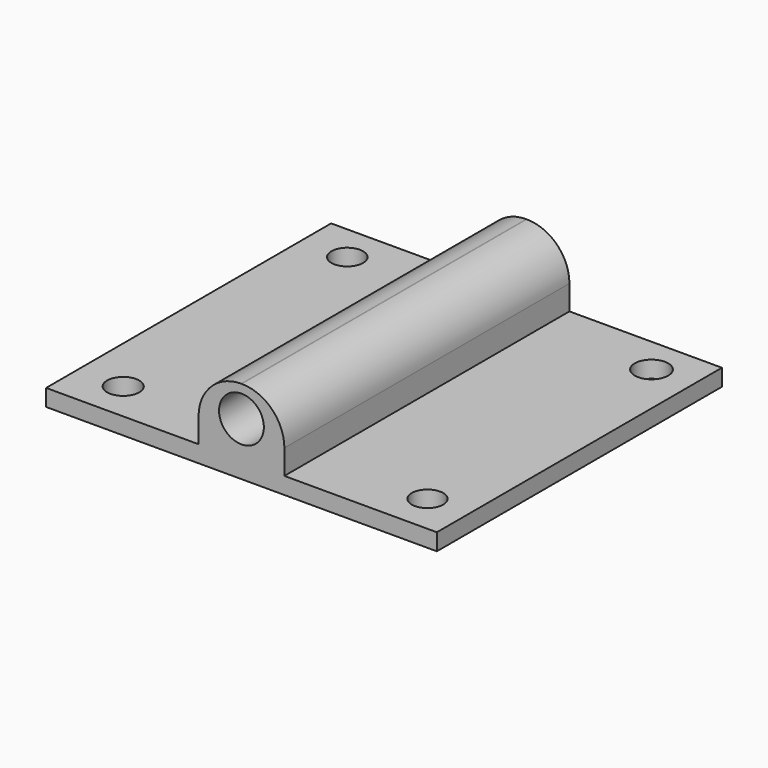
from build123d import *

# Parameters (mm, degrees)
F0_W     = 221.675306
F0_H     = 202.127948
F0_R     = 9.121421
F0_R_2   = 8.929781
F0_R_3   = 8.997318
F0_R_4   = 9.484007
F1_DEPTH = 9.525
F2_W     = 48.670978
F2_H     = 202.127948
F3_DEPTH = 38.1
F5_D     = 25.4
F6_R     = 24.13


with BuildPart() as f1:
    # F0 (on Top) → F1 (new body)
    with BuildSketch(Plane.XY):
        Rectangle(F0_W, F0_H)
        with Locations((-85.051782, -78.605309)):
            Circle(F0_R, mode=Mode.SUBTRACT)
        with Locations((87.547183, -78.605309)):
            Circle(F0_R_2, mode=Mode.SUBTRACT)
        with Locations((-85.051782, 80.268927)):
            Circle(F0_R_3, mode=Mode.SUBTRACT)
        with Locations((87.547183, 80.268927)):
            Circle(F0_R_4, mode=Mode.SUBTRACT)
    extrude(amount=F1_DEPTH)

    # F2 (on face) → F3 (join)
    with BuildSketch(Plane.XY.offset(9.525)):
        Rectangle(F2_W, F2_H)
    extrude(amount=F3_DEPTH)

    # F5 (through all)
    with Locations(Plane.XZ.offset(101.063974)):
        with Locations((0, 30.051572)):
            Hole(F5_D / 2)

    # F6
    f6_edges = [f1.edges().sort_by_distance(p)[0] for p in [
        (-24.335489, 0, 47.625),
        (24.335489, 0, 47.625),
    ]]
    fillet(f6_edges, radius=F6_R)


solid = f1.part
